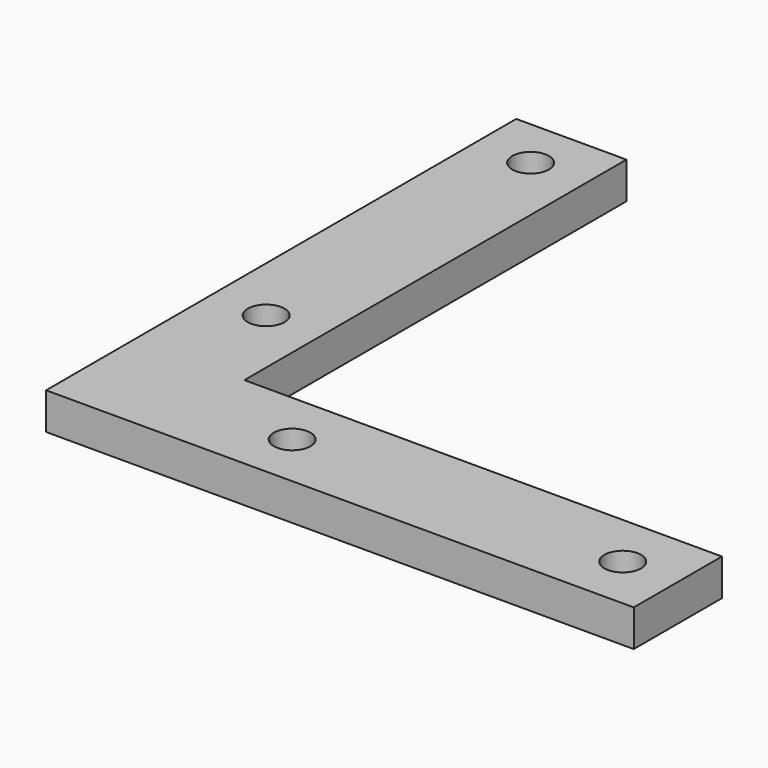
from build123d import *

# Parameters (mm, degrees)
F0_R     = 3.175
F1_DEPTH = 6.35


with BuildPart() as f1:
    # F0 (on Top) → F1 (new body)
    with BuildSketch(Plane.XY):
        Polygon((-31.75, 50.8), (-50.8, 50.8), (-50.8, -50.8), (50.8, -50.8), (50.8, -31.75), (-31.75, -31.75), align=None)
        with Locations((-15.875, -41.275)):
            Circle(F0_R, mode=Mode.SUBTRACT)
        with Locations((-41.275, -15.143792145)):
            Circle(F0_R, mode=Mode.SUBTRACT)
        with Locations((41.275, -41.275)):
            Circle(F0_R, mode=Mode.SUBTRACT)
        with Locations((-41.275, 42.006207855)):
            Circle(F0_R, mode=Mode.SUBTRACT)
        Polygon((-31.75, 50.8), (-50.8, 50.8), (-50.8, -50.8), (50.8, -50.8), (50.8, -31.75), (-31.75, -31.75), align=None)
        with Locations((-15.875, -41.275)):
            Circle(F0_R, mode=Mode.SUBTRACT)
        with Locations((-41.275, -15.143792145)):
            Circle(F0_R, mode=Mode.SUBTRACT)
        with Locations((41.275, -41.275)):
            Circle(F0_R, mode=Mode.SUBTRACT)
        with Locations((-41.275, 42.006207855)):
            Circle(F0_R, mode=Mode.SUBTRACT)
    extrude(amount=F1_DEPTH)


solid = f1.part
